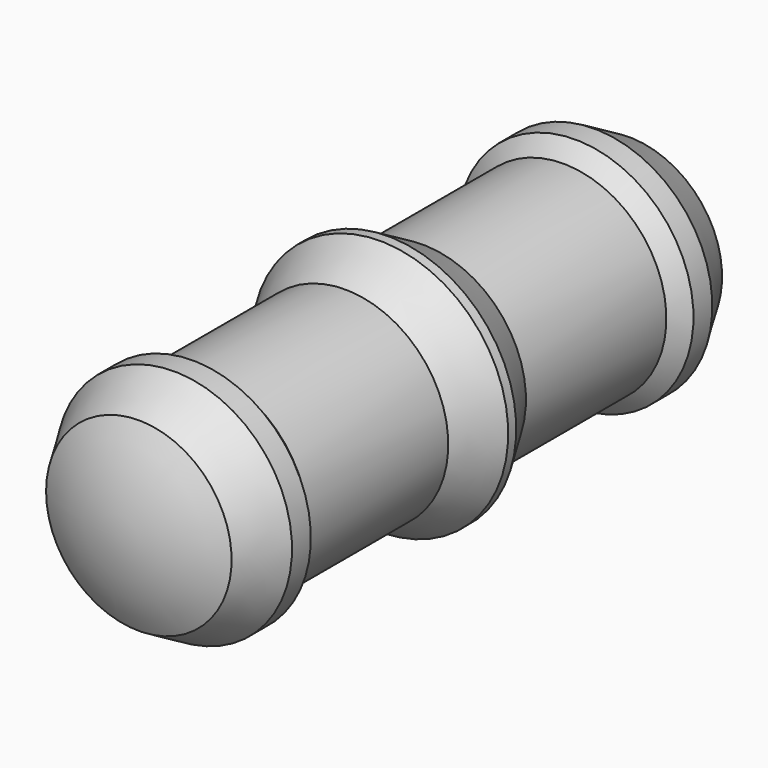
from build123d import *

# Parameters (mm, degrees)
F3_ANGLE_BACK = 90
F3_ANGLE      = 180
F4_DEPTH      = 4.501
F4_DEPTH_BACK = 4.501
F1_W          = 12
F1_H          = 1.6
F5_DEPTH      = 4.501


with BuildPart() as f3:
    # F0 (on Top) → F3 (revolve)
    with BuildSketch(Plane.XY, mode=Mode.PRIVATE) as f3_sk:
        with BuildLine():
            Line((-3.576239677, 12), (-4.5, 10.4000001865))
            Line((-4.5, 10.4000001865), (-4.5, 9.6000001865))
            Line((-4.5, 9.6000001865), (-3.9, 9.0000001865))
            Line((-3.9, 9.0000001865), (-3.9, 0))
            Line((-3.9, 0), (0, 0))
            Line((0, 0), (0, 2.5))
            ThreePointArc((0, 2.5), (-1.0606601718, 2.9393398282), (-1.5, 4))
            Line((-1.5, 4), (-1.5, 12))
            Line((-1.5, 12), (-3.576239677, 12))
        make_face()
    revolve(f3_sk.sketch.rotate(Axis((0, 7.25, 0), (0, 1, 0)), -F3_ANGLE_BACK), axis=Axis((0, 7.25, 0), (0, 1, 0)), revolution_arc=F3_ANGLE)

    # F0 (on Top) → F4 (cut, two sides)
    with BuildSketch(Plane.XY) as f4_sk:
        with BuildLine():
            Line((0, 12), (-1.5, 12))
            Line((-1.5, 12), (-1.5, 4))
            ThreePointArc((-1.5, 4), (-1.0606601718, 2.9393398282), (0, 2.5))
            Line((0, 2.5), (0, 12))
        make_face()
    extrude(amount=F4_DEPTH, mode=Mode.SUBTRACT)
    extrude(f4_sk.sketch, amount=-F4_DEPTH_BACK, mode=Mode.SUBTRACT)

    # F1 (on Right) → F5 (cut, through all)
    with BuildSketch(Plane.YZ):
        with Locations((6, 3.7)):
            Rectangle(F1_W, F1_H)
        with Locations((6, -3.7)):
            Rectangle(F1_W, F1_H)
    extrude(amount=-F5_DEPTH, mode=Mode.SUBTRACT)

    # F6: F3 across plane


with BuildPart() as f3_1:
    add(f3.part)
    add(f3.part.mirror(Plane.YZ))

    # F7: F3 across plane


with BuildPart() as f3_2:
    add(f3_1.part)
    add(f3_1.part.mirror(Plane.XZ))


with BuildPart() as f8:
    # F2 (on Top) → F8 (revolve)
    with BuildSketch(Plane.XY):
        with BuildLine():
            Line((-4.1, 8.917157474), (-4.1, 1.932051))
            Line((-4.1, 1.932051), (-5.1, 0.2))
            Line((-5.1, 0.2), (-5.1, 0))
            Line((-5.1, 0), (0, 0))
            Line((0, 0), (0, 13.2))
            ThreePointArc((0, 13.2), (-1.9123755343, 12.9455750006), (-3.6917097308, 12.2))
            Line((-3.6917097308, 12.2), (-4.7, 10.453590025))
            Line((-4.7, 10.453590025), (-4.7, 9.517157474))
            Line((-4.7, 9.517157474), (-4.1, 8.917157474))
        make_face()
    revolve(axis=Axis((0, 6.6, 0), (0, 1, 0)))

    # F9: F8 across plane


with BuildPart() as f8_1:
    add(f8.part)
    add(f8.part.mirror(Plane.XZ))


solid = Compound([f3_2.part, f8_1.part])
